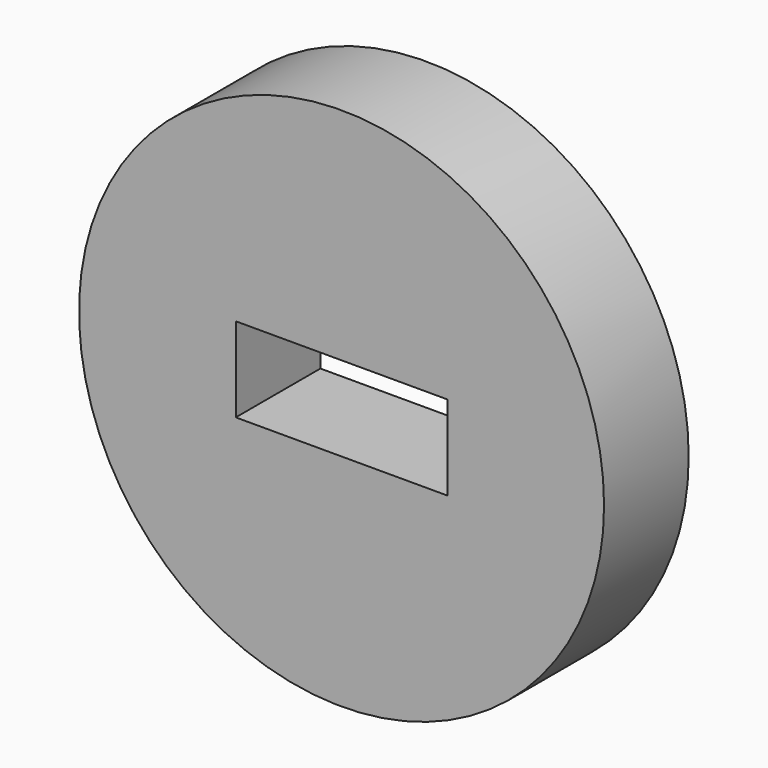
from build123d import *

# Parameters (mm, degrees)
F0_R     = 63.031777
F1_DEPTH = 12.7
F2_W     = 50.8
F2_H     = 20.32
F3_DEPTH = 25.401


with BuildPart() as f1:
    # F0 (on Front) → F1 (new body, symmetric)
    with BuildSketch(Plane.XZ):
        Circle(F0_R)
    extrude(amount=F1_DEPTH, both=True)

    # F2 (on face) → F3 (cut, through all)
    with BuildSketch(Plane.XZ.offset(12.7)):
        Rectangle(F2_W, F2_H)
    extrude(amount=-F3_DEPTH, mode=Mode.SUBTRACT)


solid = f1.part
